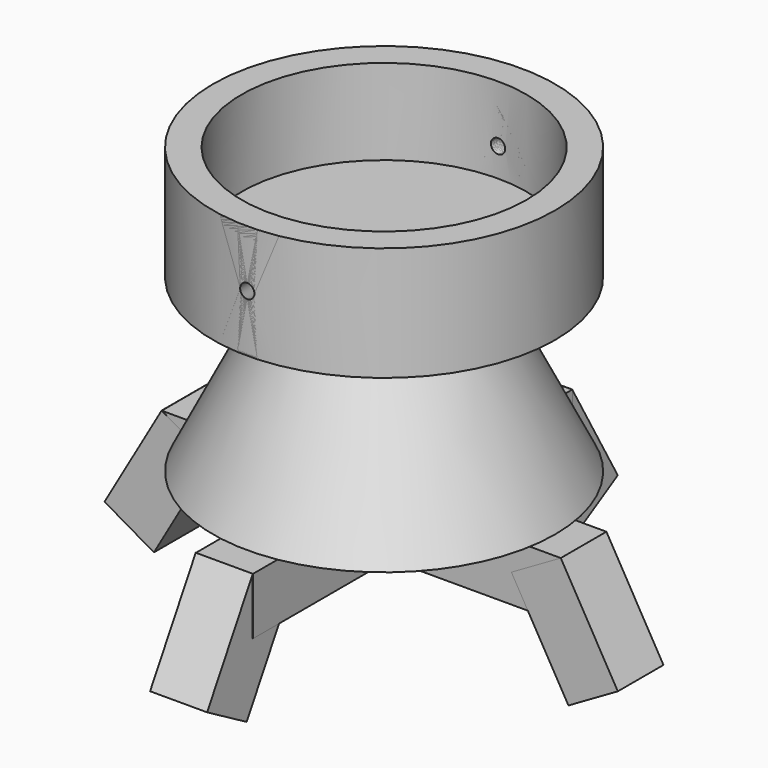
from build123d import *

# Parameters (mm, degrees)
F0_R      = 152.4
F0_R_2    = 127
F1_DEPTH  = 50.8
F3_R      = 6.35
F4_DEPTH  = 304.801
F5_R      = 127
F6_DEPTH  = 76.2
F7_R      = 76.2
F9_R      = 152.4
F11_W     = 25.4
F11_H     = 152.4
F14_DEPTH = 50.8
F11_W_2   = 152.4
F11_H_2   = 25.4
F16_DEPTH = 50.8
F17_DEPTH = 50.8
F19_W     = 50.8
F19_H     = 101.6
F20_DEPTH = 50.8
F24_W     = 50.8
F24_H     = 101.6
F25_DEPTH = 50.8


with BuildPart() as f1:
    # F0 (on Top) → F1 (new body, symmetric)
    with BuildSketch(Plane.XY):
        Circle(F0_R)
        Circle(F0_R_2, mode=Mode.SUBTRACT)
        Circle(F0_R_2)
    extrude(amount=F1_DEPTH, both=True)

    # F3 (on offset) → F4 (cut, through all)
    with BuildSketch(Plane.XZ.offset(152.4)):
        Circle(F3_R)
    extrude(amount=-F4_DEPTH, mode=Mode.SUBTRACT)

    # F5 (on face) → F6 (cut)
    with BuildSketch(Plane.XY.offset(50.8)):
        Circle(F5_R)
    extrude(amount=-F6_DEPTH, mode=Mode.SUBTRACT)

    # F7 (on face) → F10 section 0
    with BuildSketch(Plane(origin=(0, 0, -50.8), x_dir=(1, 0, 0), z_dir=(0, 0, -1))):
        Circle(F7_R)
    # F9 (on offset) → F10 section 1
    with BuildSketch(Plane.XY.offset(-203.2)):
        Circle(F9_R)
    loft()

    # F11 (on face) → F14 (join)
    with BuildSketch(Plane(origin=(0, 0, -203.2), x_dir=(1, 0, 0), z_dir=(0, 0, -1))):
        with Locations((-12.7, 101.6)):
            Rectangle(F11_W, F11_H)
        with Locations((12.7, 101.6)):
            Rectangle(F11_W, F11_H)
        with Locations((-12.7, 101.6)):
            Rectangle(F11_W, F11_H)
        with Locations((12.7, 101.6)):
            Rectangle(F11_W, F11_H)
    extrude(amount=F14_DEPTH)

    # F15: F1 across plane


with BuildPart() as f1_1:
    add(f1.part)
    add(f1.part.mirror(Plane(origin=(0, 0, -203.2), x_dir=(1, 0, 0), z_dir=(0, -1, 0))))

    # F19 (on face) → F20 (join)
    with BuildSketch(Plane(origin=(0, -45.361819, 26.189658), x_dir=(-1, 0, 0), z_dir=(0, 0.866025, -0.5))):
        with Locations((0.122589, -315.631445)):
            Rectangle(F19_W, F19_H)
    extrude(amount=F20_DEPTH)


with BuildPart() as f16:
    # F11 (on face) → F16 (new body)
    with BuildSketch(Plane(origin=(0, 0, -203.2), x_dir=(1, 0, 0), z_dir=(0, 0, -1))):
        with Locations((-101.6, -12.7)):
            Rectangle(F11_W_2, F11_H_2)
        with Locations((-101.6, 12.7)):
            Rectangle(F11_W_2, F11_H_2)
        with Locations((-101.6, -12.7)):
            Rectangle(F11_W_2, F11_H_2)
        with Locations((-101.6, 12.7)):
            Rectangle(F11_W_2, F11_H_2)
    extrude(amount=F16_DEPTH)


with BuildPart() as f17:
    # F11 (on face) → F17 (new body)
    with BuildSketch(Plane(origin=(0, 0, -203.2), x_dir=(1, 0, 0), z_dir=(0, 0, -1))):
        with Locations((101.6, -12.7)):
            Rectangle(F11_W_2, F11_H_2)
        with Locations((101.6, 12.7)):
            Rectangle(F11_W_2, F11_H_2)
        with Locations((101.6, 12.7)):
            Rectangle(F11_W_2, F11_H_2)
        with Locations((101.6, -12.7)):
            Rectangle(F11_W_2, F11_H_2)
    extrude(amount=F17_DEPTH)

    # F24 (on face) → F25 (join)
    with BuildSketch(Plane(origin=(45.361819, 0, 26.189658), x_dir=(0, -1, 0), z_dir=(-0.866025, 0, -0.5))):
        with Locations((0.081244, -315.618038)):
            Rectangle(F24_W, F24_H)
    extrude(amount=F25_DEPTH)


with BuildPart() as f21_1:
    # F21: instance of F1
    add(f1_1.part.mirror(Plane(origin=(0, 0, -203.2), x_dir=(1, 0, 0), z_dir=(0, -1, 0))))


with BuildPart() as f26_1:
    # F26: instance of F17
    add(f17.part.mirror(Plane(origin=(0, 0, -203.2), x_dir=(0, 1, 0), z_dir=(1, 0, 0))))


solid = Compound([f1_1.part, f16.part, f17.part, f21_1.part, f26_1.part])
